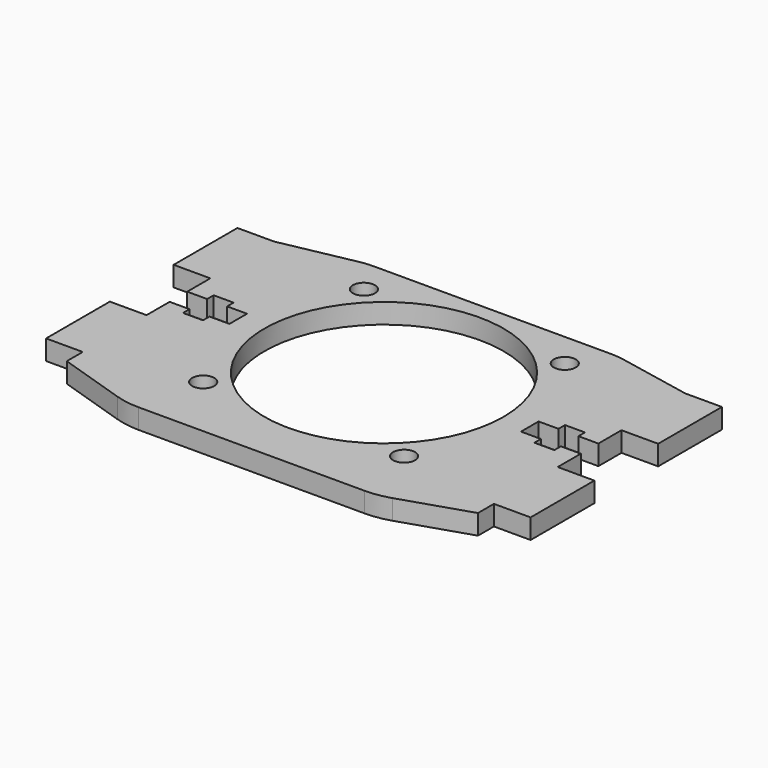
from build123d import *

# Parameters (mm, degrees)
F0_R     = 1.7526
F0_R_2   = 19.05
F1_DEPTH = 3.175
F2_R     = 12.7


with BuildPart() as f1:
    # F0 (on Top) → F1 (new body)
    with BuildSketch(Plane.XY):
        Polygon((-32.74949, -1.7526), (-32.74949, -6.35), (-38.59149, -6.35), (-38.59149, -19.05), (-32.74949, -19.05), (-32.74949, -22.225), (-20, -26.35), (0, -26.35), (20, -26.35), (32.74949, -22.225), (32.74949, -19.05), (38.59149, -19.05), (38.59149, -6.35), (32.74949, -6.35), (32.74949, -1.7526), (29.57449, -1.7526), (29.57449, -3.048), (26.39949, -3.048), (26.39949, -1.7526), (23.22449, -1.7526), (23.22449, 1.7526), (26.39949, 1.7526), (26.39949, 3.048), (29.57449, 3.048), (29.57449, 1.7526), (32.74949, 1.7526), (32.74949, 6.35), (38.59149, 6.35), (38.59149, 19.05), (32.74949, 19.05), (20, 21.5875), (0, 21.5875), (-20, 21.5875), (-32.74949, 19.05), (-38.59149, 19.05), (-38.59149, 6.35), (-32.74949, 6.35), (-32.74949, 1.7526), (-29.57449, 1.7526), (-29.57449, 3.048), (-26.39949, 3.048), (-26.39949, 1.7526), (-23.22449, 1.7526), (-23.22449, -1.7526), (-26.39949, -1.7526), (-26.39949, -3.048), (-29.57449, -3.048), (-29.57449, -1.7526), align=None)
        with Locations((-16, -16)):
            Circle(F0_R, mode=Mode.SUBTRACT)
        with Locations((16, -16)):
            Circle(F0_R, mode=Mode.SUBTRACT)
        with Locations((-16, 16)):
            Circle(F0_R, mode=Mode.SUBTRACT)
        Circle(F0_R_2, mode=Mode.SUBTRACT)
        with Locations((16, 16)):
            Circle(F0_R, mode=Mode.SUBTRACT)
    extrude(amount=F1_DEPTH)

    # F2
    f2_edges = [f1.edges().sort_by_distance(p)[0] for p in [
        (-20, -26.35, 1.5875),
        (20, -26.35, 1.5875),
        (20, 21.5875, 1.5875),
        (-20, 21.5875, 1.5875),
    ]]
    fillet(f2_edges, radius=F2_R)


solid = f1.part
